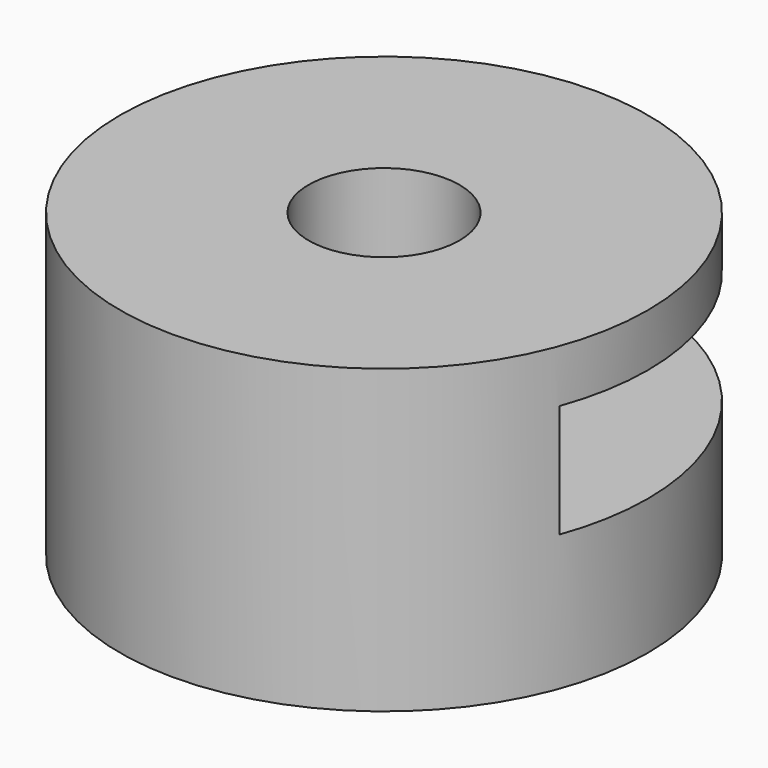
from build123d import *

# Parameters (mm, degrees)
BOX_W             = 30
BOX_H             = 30
BOX_DEPTH         = 7.5
CYLINDER001_R     = 5
CYLINDER001_DEPTH = 40
CYLINDER_R        = 17.5
CYLINDER_DEPTH    = 20


with BuildPart() as cube:
    # Box → Box (new body)
    with BuildSketch(Plane(origin=(7, -6, 9), x_dir=(1, 0, 0), z_dir=(0, 0, 1))):
        with Locations((15, 15)):
            Rectangle(BOX_W, BOX_H)
    extrude(amount=BOX_DEPTH)


with BuildPart() as cylinder001:
    # Cylinder001 → Cylinder001 (new body)
    with BuildSketch(Plane.XY.offset(-10)):
        Circle(CYLINDER001_R)
    extrude(amount=CYLINDER001_DEPTH)


with BuildPart() as mount_bottom:
    # Cylinder → Cylinder (new body)
    with BuildSketch(Plane.XY):
        Circle(CYLINDER_R)
    extrude(amount=CYLINDER_DEPTH)

    # Cut: cut Cylinder001
    add(cylinder001.part, mode=Mode.SUBTRACT)

    # Cut001: cut Cube
    add(cube.part, mode=Mode.SUBTRACT)


solid = mount_bottom.part
